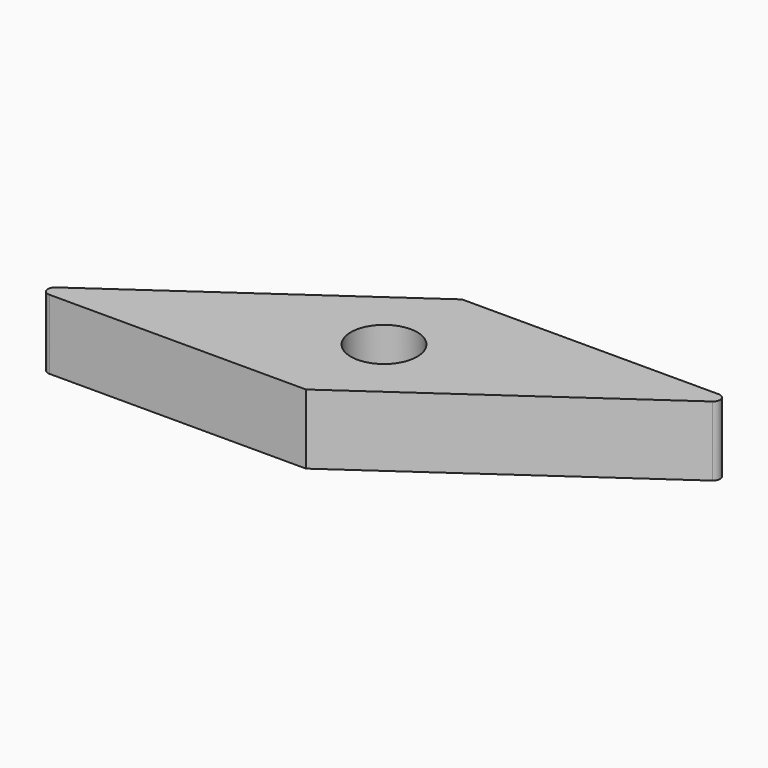
from build123d import *

# Parameters (mm, degrees)
F1_DEPTH = 4
F2_R     = 0.4
F3_R     = 1.905
F4_DEPTH = 4


with BuildPart() as f1:
    # F0 (on Top) → F1 (new body)
    with BuildSketch(Plane.XY):
        Polygon((-16, 0), (0, 0), (16, 11.203321), (0, 11.203321), align=None)
    extrude(amount=F1_DEPTH)

    # F2
    f2_edges = [f1.edges().sort_by_distance(p)[0] for p in [
        (-16, 0, 2),
        (16, 11.203321, 2),
    ]]
    fillet(f2_edges, radius=F2_R)

    # F3 (on face) → F4 (cut, through all)
    with BuildSketch(Plane.XY.offset(4)):
        with Locations((0, 5.60166)):
            Circle(F3_R)
    extrude(amount=-F4_DEPTH, mode=Mode.SUBTRACT)


solid = f1.part
